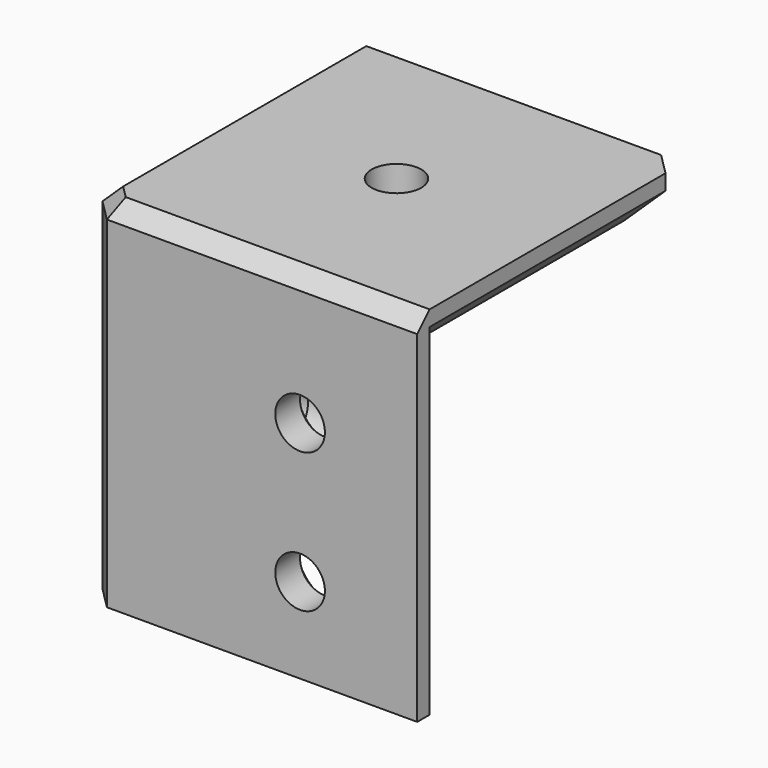
from build123d import *

# Parameters (mm, degrees)
PAD022_DEPTH    = 20
PAD023_DEPTH    = 3
CHAMFER010_SIZE = 2
CHAMFER011_SIZE = 1
SKETCH041_R     = 1.6
POCKET012_DEPTH = 5
CHAMFER012_SIZE = 1
SKETCH042_R     = 1.6
POCKET013_DEPTH = 3
CHAMFER013_SIZE = 1
SKETCH043_R     = 1.6
POCKET014_DEPTH = 3.001
CHAMFER014_SIZE = 1


with BuildPart() as part:
    # Sketch039 → Pad022 (new body)
    with BuildSketch(Plane.XY):
        Polygon((19.414214, 3), (8.313708, 3), (3, 8.313708), (3, 19.414214), (1, 21.414214), (0, 21.414214), (0, 1.414214), (1.414214, 0), (21.414214, 0), (21.414214, 1), align=None)
    extrude(amount=-PAD022_DEPTH)

    # Sketch040 → Pad023 (join)
    with BuildSketch(Plane.XY):
        Polygon((0, 21.414214), (20, 21.414214), (21.414214, 20), (21.414214, 0), (1.414214, 0), (0, 1.414214), align=None)
    extrude(amount=PAD023_DEPTH)

    # Chamfer010
    chamfer010_edges = [part.edges().sort_by_distance(p)[0] for p in [
        (21.414214, 10.5, 0),
        (20.707107, 20.707107, 0),
        (10.5, 21.414214, 0),
    ]]
    chamfer(chamfer010_edges, length=CHAMFER010_SIZE)

    # Chamfer011
    chamfer011_edges = [part.edges().sort_by_distance(p)[0] for p in [
        (0.707107, 0.707107, 3),
        (11.414214, 0, 3),
        (0, 11.414214, 3),
    ]]
    chamfer(chamfer011_edges, length=CHAMFER011_SIZE)

    # Sketch041 (on Face15 of Chamfer011) → Pocket012 (cut)
    with BuildSketch(Plane(origin=(0, 0, 0), x_dir=(1, 0, 0), z_dir=(0, 0, -1))):
        with Locations((11.207107, -11.085786)):
            Circle(SKETCH041_R)
    extrude(amount=-POCKET012_DEPTH, mode=Mode.SUBTRACT)

    # Chamfer012
    chamfer012_edges = [part.edges().sort_by_distance(p)[0] for p in [
        (9.607107, 11.085786, 0),
    ]]
    chamfer(chamfer012_edges, length=CHAMFER012_SIZE)

    # Sketch042 (on Face16 of Chamfer012) → Pocket013 (cut)
    with BuildSketch(Plane.YZ.offset(3)):
        with Locations((13.863961, -14.5)):
            Circle(SKETCH042_R)
        with Locations((13.863961, -5.5)):
            Circle(SKETCH042_R)
    extrude(amount=-POCKET013_DEPTH, mode=Mode.SUBTRACT)

    # Chamfer013
    chamfer013_edges = [part.edges().sort_by_distance(p)[0] for p in [
        (3, 12.263961, -14.5),
        (3, 12.263961, -5.5),
    ]]
    chamfer(chamfer013_edges, length=CHAMFER013_SIZE)

    # Sketch043 (on Face9 of Chamfer013) → Pocket014 (cut, through all)
    with BuildSketch(Plane(origin=(0, 3, 0), x_dir=(-1, 0, 0), z_dir=(0, 1, 0))):
        with Locations((-13.863961, -5.5)):
            Circle(SKETCH043_R)
        with Locations((-13.863961, -14.5)):
            Circle(SKETCH043_R)
    extrude(amount=-POCKET014_DEPTH, mode=Mode.SUBTRACT)

    # Chamfer014
    chamfer014_edges = [part.edges().sort_by_distance(p)[0] for p in [
        (15.463961, 3, -5.5),
        (15.463961, 3, -14.5),
    ]]
    chamfer(chamfer014_edges, length=CHAMFER014_SIZE)


with BuildPart() as part_1:
    # Body040 placement: moved
    add(part.part.moved(Location((0, 0, -18))))


solid = part_1.part
